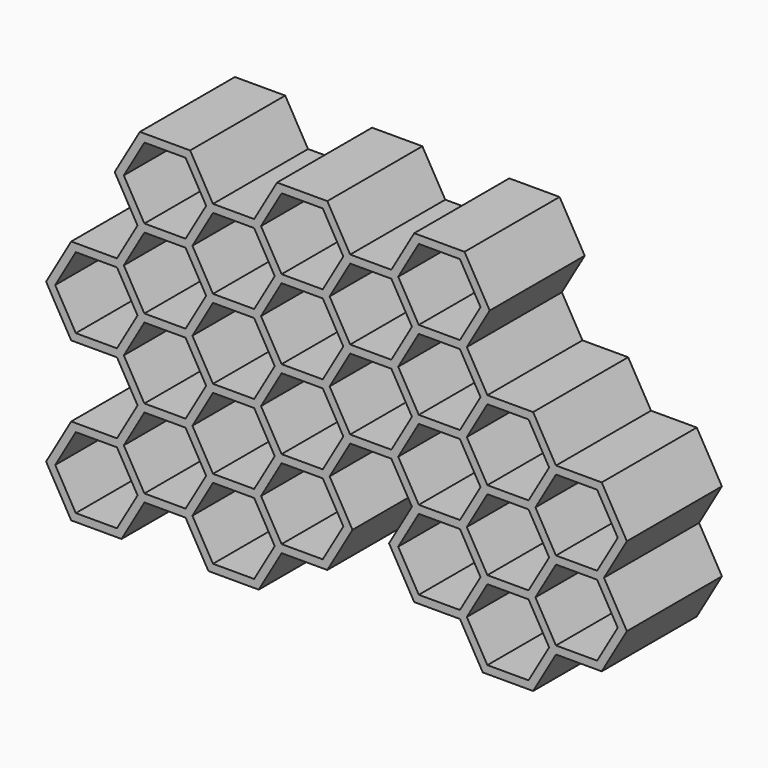
from build123d import *

# Parameters (mm, degrees)
F1_DEPTH = 12.7
F2_DEPTH = 95.25


with BuildPart() as f1:
    # F0 (on Front) → F1 (new body)
    with BuildSketch(Plane.XZ):
        Polygon((-169.2561069029, 130.2924993012), (-132.5943648094, 130.2924993012), (-114.2634937626, 162.0424993012), (-132.5943648094, 193.7924993012), (-169.2561069029, 193.7924993012), (-187.5869779497, 162.0424993012), align=None)
        Polygon((-167.4230197982, 133.4674993012), (-183.9208037403, 162.0424993012), (-167.4230197982, 190.6174993012), (-134.427451914, 190.6174993012), (-117.929667972, 162.0424993012), (-134.427451914, 133.4674993012), align=None, mode=Mode.SUBTRACT)
        Polygon((-132.5943648094, 3.2924993012), (-114.2634937626, 35.0424993012), (-132.5943648094, 66.7924993012), (-169.2561069029, 66.7924993012), (-187.5869779497, 35.0424993012), (-169.2561069029, 3.2924993012), align=None)
        Polygon((-167.4230197982, 6.4674993012), (-183.9208037403, 35.0424993012), (-167.4230197982, 63.6174993012), (-134.427451914, 63.6174993012), (-117.929667972, 35.0424993012), (-134.427451914, 6.4674993012), align=None, mode=Mode.SUBTRACT)
        Polygon((105.7069587986, 35.0424993012), (87.3760877519, 3.2924993012), (105.7069587986, -28.4575006988), (142.3687008922, -28.4575006988), (160.699571939, 3.2924993012), (142.3687008922, 35.0424993012), align=None)
        Polygon((107.5400459033, -25.2825006988), (91.0422619612, 3.2924993012), (107.5400459033, 31.8674993012), (140.5356137875, 31.8674993012), (157.0333977296, 3.2924993012), (140.5356137875, -25.2825006988), align=None, mode=Mode.SUBTRACT)
        Polygon((87.3760877519, 3.2924993012), (50.7143456583, 3.2924993012), (32.3834746116, -28.4575006988), (50.7143456583, -60.2075006988), (87.3760877519, -60.2075006988), (105.7069587986, -28.4575006988), align=None)
        Polygon((52.547432763, -57.0325006988), (36.0496488209, -28.4575006988), (52.547432763, 0.1174993012), (85.5430006472, 0.1174993012), (102.0407845893, -28.4575006988), (85.5430006472, -57.0325006988), align=None, mode=Mode.SUBTRACT)
        Polygon((-77.6017516691, 35.0424993012), (-59.2708806223, 66.7924993012), (-77.6017516691, 98.5424993012), (-114.2634937626, 98.5424993012), (-132.5943648094, 66.7924993012), (-114.2634937626, 35.0424993012), align=None)
        Polygon((-112.4304066579, 38.2174993012), (-128.9281906, 66.7924993012), (-112.4304066579, 95.3674993012), (-79.4348387737, 95.3674993012), (-62.9370548316, 66.7924993012), (-79.4348387737, 38.2174993012), align=None, mode=Mode.SUBTRACT)
        Polygon((-187.5869779497, -91.9575006988), (-169.2561069029, -60.2075006988), (-187.5869779497, -28.4575006988), (-224.2487200432, -28.4575006988), (-242.57959109, -60.2075006988), (-224.2487200432, -91.9575006988), align=None)
        Polygon((-222.4156329385, -88.7825006988), (-238.9134168806, -60.2075006988), (-222.4156329385, -31.6325006988), (-189.4200650544, -31.6325006988), (-172.9222811123, -60.2075006988), (-189.4200650543, -88.7825006988), align=None, mode=Mode.SUBTRACT)
        Polygon((160.699571939, 3.2924993012), (142.3687008922, -28.4575006988), (160.699571939, -60.2075006988), (197.3613140325, -60.2075006988), (215.6921850793, -28.4575006988), (197.3613140325, 3.2924993012), align=None)
        Polygon((162.5326590436, -57.0325006988), (146.0348751015, -28.4575006988), (162.5326590436, 0.1174993012), (195.5282269278, 0.1174993012), (212.0260108699, -28.4575006988), (195.5282269278, -57.0325006988), align=None, mode=Mode.SUBTRACT)
        Polygon((-4.278267482, -28.4575006988), (-22.6091385287, 3.2924993012), (-59.2708806223, 3.2924993012), (-77.6017516691, -28.4575006988), (-59.2708806223, -60.2075006988), (-22.6091385287, -60.2075006988), align=None)
        Polygon((-57.4377935176, -57.0325006988), (-73.9355774597, -28.4575006988), (-57.4377935176, 0.1174993012), (-24.4422256334, 0.1174993012), (-7.9444416913, -28.4575006988), (-24.4422256334, -57.0325006988), align=None, mode=Mode.SUBTRACT)
        Polygon((50.7143456583, 66.7924993012), (32.3834746116, 35.0424993012), (50.7143456583, 3.2924993012), (87.3760877519, 3.2924993012), (105.7069587986, 35.0424993012), (87.3760877519, 66.7924993012), align=None)
        Polygon((52.547432763, 6.4674993012), (36.0496488209, 35.0424993012), (52.547432763, 63.6174993012), (85.5430006472, 63.6174993012), (102.0407845893, 35.0424993012), (85.5430006472, 6.4674993012), align=None, mode=Mode.SUBTRACT)
        Polygon((-59.2708806223, -60.2075006988), (-77.6017516691, -28.4575006988), (-114.2634937626, -28.4575006988), (-132.5943648094, -60.2075006988), (-114.2634937626, -91.9575006988), (-77.6017516691, -91.9575006988), align=None)
        Polygon((-112.4304066579, -88.7825006988), (-128.9281906, -60.2075006988), (-112.4304066579, -31.6325006988), (-79.4348387737, -31.6325006988), (-62.9370548316, -60.2075006988), (-79.4348387737, -88.7825006988), align=None, mode=Mode.SUBTRACT)
        Polygon((142.3687008922, -28.4575006988), (105.7069587986, -28.4575006988), (87.3760877519, -60.2075006988), (105.7069587986, -91.9575006988), (142.3687008922, -91.9575006988), (160.699571939, -60.2075006988), align=None)
        Polygon((107.5400459033, -88.7825006988), (91.0422619612, -60.2075006988), (107.5400459033, -31.6325006988), (140.5356137875, -31.6325006988), (157.0333977296, -60.2075006988), (140.5356137875, -88.7825006988), align=None, mode=Mode.SUBTRACT)
        Polygon((-22.6091385287, 130.2924993012), (-4.278267482, 98.5424993012), (32.3834746116, 98.5424993012), (50.7143456583, 130.2924993012), (32.3834746116, 162.0424993012), (-4.278267482, 162.0424993012), align=None)
        Polygon((-2.4451803773, 101.7174993012), (-18.9429643194, 130.2924993012), (-2.4451803773, 158.8674993012), (30.5503875069, 158.8674993012), (47.048171449, 130.2924993012), (30.5503875069, 101.7174993012), align=None, mode=Mode.SUBTRACT)
        Polygon((32.3834746116, 98.5424993012), (50.7143456583, 66.7924993012), (87.3760877519, 66.7924993012), (105.7069587986, 98.5424993012), (87.3760877519, 130.2924993012), (50.7143456583, 130.2924993012), align=None)
        Polygon((52.547432763, 69.9674993012), (36.0496488209, 98.5424993012), (52.547432763, 127.1174993012), (85.5430006472, 127.1174993012), (102.0407845893, 98.5424993012), (85.5430006472, 69.9674993012), align=None, mode=Mode.SUBTRACT)
        Polygon((-132.5943648094, 66.7924993012), (-114.2634937626, 98.5424993012), (-132.5943648094, 130.2924993012), (-169.2561069029, 130.2924993012), (-187.5869779497, 98.5424993012), (-169.2561069029, 66.7924993012), align=None)
        Polygon((-167.4230197982, 69.9674993012), (-183.9208037403, 98.5424993012), (-167.4230197982, 127.1174993012), (-134.427451914, 127.1174993012), (-117.929667972, 98.5424993012), (-134.427451914, 69.9674993012), align=None, mode=Mode.SUBTRACT)
        Polygon((-77.6017516691, -28.4575006988), (-59.2708806223, 3.2924993012), (-77.6017516691, 35.0424993012), (-114.2634937626, 35.0424993012), (-132.5943648094, 3.2924993012), (-114.2634937626, -28.4575006988), align=None)
        Polygon((-112.4304066579, -25.2825006988), (-128.9281906, 3.2924993012), (-112.4304066579, 31.8674993012), (-79.4348387737, 31.8674993012), (-62.9370548316, 3.2924993012), (-79.4348387737, -25.2825006988), align=None, mode=Mode.SUBTRACT)
        Polygon((-27.4963065598, 130.2924993012), (-22.6091385287, 130.2924993012), (-4.278267482, 162.0424993012), (-22.6091385287, 193.7924993012), (-59.2708806223, 193.7924993012), (-77.6017516691, 162.0424993012), (-59.2708806223, 130.2924993012), align=None)
        Polygon((-57.4377935176, 133.4674993012), (-73.9355774597, 162.0424993012), (-57.4377935176, 190.6174993012), (-24.4422256334, 190.6174993012), (-7.9444416913, 162.0424993012), (-24.4422256334, 133.4674993012), align=None, mode=Mode.SUBTRACT)
        Polygon((-114.2634937626, 98.5424993012), (-77.6017516691, 98.5424993012), (-59.2708806223, 130.2924993012), (-77.6017516691, 162.0424993012), (-114.2634937626, 162.0424993012), (-132.5943648094, 130.2924993012), align=None)
        Polygon((-112.4304066579, 101.7174993012), (-128.9281906, 130.2924993012), (-112.4304066579, 158.8674993012), (-79.4348387737, 158.8674993012), (-62.9370548316, 130.2924993012), (-79.4348387737, 101.7174993012), align=None, mode=Mode.SUBTRACT)
        Polygon((-187.5869779497, 35.0424993012), (-169.2561069029, 66.7924993012), (-187.5869779497, 98.5424993012), (-190.6410588775, 98.5424993012), (-224.2487200432, 98.5424993012), (-242.57959109, 66.7924993012), (-224.2487200432, 35.0424993012), (-221.8035396555, 35.0424993012), align=None)
        Polygon((-222.4156329385, 38.2174993012), (-238.9134168806, 66.7924993012), (-222.4156329385, 95.3674993012), (-189.4200650544, 95.3674993012), (-172.9222811123, 66.7924993012), (-189.4200650544, 38.2174993012), align=None, mode=Mode.SUBTRACT)
        Polygon((160.699571939, 66.7924993012), (142.3687008922, 35.0424993012), (160.699571939, 3.2924993012), (197.3613140325, 3.2924993012), (215.6921850793, 35.0424993012), (197.3613140325, 66.7924993012), align=None)
        Polygon((162.5326590436, 6.4674993012), (146.0348751015, 35.0424993012), (162.5326590436, 63.6174993012), (195.5282269278, 63.6174993012), (212.0260108699, 35.0424993012), (195.5282269278, 6.4674993012), align=None, mode=Mode.SUBTRACT)
        Polygon((-132.5943648094, -60.2075006988), (-114.2634937626, -28.4575006988), (-132.5943648094, 3.2924993012), (-169.2561069029, 3.2924993012), (-187.5869779497, -28.4575006988), (-169.2561069029, -60.2075006988), align=None)
        Polygon((-167.4230197982, -57.0325006988), (-183.9208037403, -28.4575006988), (-167.4230197982, 0.1174993012), (-134.427451914, 0.1174993012), (-117.929667972, -28.4575006988), (-134.427451914, -57.0325006988), align=None, mode=Mode.SUBTRACT)
        Polygon((32.3834746116, 162.0424993012), (50.7143456583, 130.2924993012), (87.3760877519, 130.2924993012), (105.7069587986, 162.0424993012), (87.3760877519, 193.7924993012), (50.7143456583, 193.7924993012), align=None)
        Polygon((52.547432763, 133.4674993012), (36.0496488209, 162.0424993012), (52.547432763, 190.6174993012), (85.5430006472, 190.6174993012), (102.0407845893, 162.0424993012), (85.5430006472, 133.4674993012), align=None, mode=Mode.SUBTRACT)
        Polygon((105.7069587986, 98.5424993012), (87.3760877519, 66.7924993012), (105.7069587986, 35.0424993012), (142.3687008922, 35.0424993012), (160.699571939, 66.7924993012), (142.3687008922, 98.5424993012), align=None)
        Polygon((107.5400459033, 38.2174993012), (91.0422619612, 66.7924993012), (107.5400459033, 95.3674993012), (140.5356137875, 95.3674993012), (157.0333977296, 66.7924993012), (140.5356137875, 38.2174993012), align=None, mode=Mode.SUBTRACT)
        Polygon((-22.6091385287, 3.2924993012), (-4.278267482, 35.0424993012), (-22.6091385287, 66.7924993012), (-27.4963065598, 66.7924993012), (-59.2708806223, 66.7924993012), (-77.6017516691, 35.0424993012), (-59.2708806223, 3.2924993012), align=None)
        Polygon((-57.4377935176, 6.4674993012), (-73.9355774597, 35.0424993012), (-57.4377935176, 63.6174993012), (-24.4422256334, 63.6174993012), (-7.9444416913, 35.0424993012), (-24.4422256334, 6.4674993012), align=None, mode=Mode.SUBTRACT)
        Polygon((-22.6091385287, 66.7924993012), (-4.278267482, 35.0424993012), (27.4963065702, 35.0424993012), (32.3834746116, 35.0424993012), (50.7143456583, 66.7924993012), (32.3834746116, 98.5424993012), (-4.278267482, 98.5424993012), align=None)
        Polygon((-2.4451803773, 38.2174993012), (-18.9429643194, 66.7924993012), (-2.4451803773, 95.3674993012), (30.5503875069, 95.3674993012), (47.048171449, 66.7924993012), (30.5503875069, 38.2174993012), align=None, mode=Mode.SUBTRACT)
        Polygon((-57.4377935176, 190.6174993012), (-73.9355774597, 162.0424993012), (-57.4377935176, 133.4674993012), (-24.4422256334, 133.4674993012), (-7.9444416913, 162.0424993012), (-24.4422256334, 190.6174993012), align=None)
        Polygon((162.5326590436, 0.1174993012), (146.0348751015, -28.4575006988), (162.5326590436, -57.0325006988), (195.5282269278, -57.0325006988), (212.0260108699, -28.4575006988), (195.5282269278, 0.1174993012), align=None)
        Polygon((52.547432763, 190.6174993012), (36.0496488209, 162.0424993012), (52.547432763, 133.4674993012), (85.5430006472, 133.4674993012), (102.0407845893, 162.0424993012), (85.5430006472, 190.6174993012), align=None)
        Polygon((-222.4156329385, -31.6325006988), (-238.9134168806, -60.2075006988), (-222.4156329385, -88.7825006988), (-189.4200650543, -88.7825006988), (-172.9222811123, -60.2075006988), (-189.4200650544, -31.6325006988), align=None)
        Polygon((52.547432763, 127.1174993012), (36.0496488209, 98.5424993012), (52.547432763, 69.9674993012), (85.5430006472, 69.9674993012), (102.0407845893, 98.5424993012), (85.5430006472, 127.1174993012), align=None)
        Polygon((52.547432763, 63.6174993012), (36.0496488209, 35.0424993012), (52.547432763, 6.4674993012), (85.5430006472, 6.4674993012), (102.0407845893, 35.0424993012), (85.5430006472, 63.6174993012), align=None)
        Polygon((-222.4156329385, 95.3674993012), (-238.9134168806, 66.7924993012), (-222.4156329385, 38.2174993012), (-189.4200650544, 38.2174993012), (-172.9222811123, 66.7924993012), (-189.4200650544, 95.3674993012), align=None)
        Polygon((-2.4451803773, 95.3674993012), (-18.9429643194, 66.7924993012), (-2.4451803773, 38.2174993012), (30.5503875069, 38.2174993012), (47.048171449, 66.7924993012), (30.5503875069, 95.3674993012), align=None)
        Polygon((-167.4230197982, 127.1174993012), (-183.9208037403, 98.5424993012), (-167.4230197982, 69.9674993012), (-134.427451914, 69.9674993012), (-117.929667972, 98.5424993012), (-134.427451914, 127.1174993012), align=None)
        Polygon((-112.4304066579, 158.8674993012), (-128.9281906, 130.2924993012), (-112.4304066579, 101.7174993012), (-79.4348387737, 101.7174993012), (-62.9370548316, 130.2924993012), (-79.4348387737, 158.8674993012), align=None)
        Polygon((-57.4377935176, 0.1174993012), (-73.9355774597, -28.4575006988), (-57.4377935176, -57.0325006988), (-24.4422256334, -57.0325006988), (-7.9444416913, -28.4575006988), (-24.4422256334, 0.1174993012), align=None)
        Polygon((-112.4304066579, -31.6325006988), (-128.9281906, -60.2075006988), (-112.4304066579, -88.7825006988), (-79.4348387737, -88.7825006988), (-62.9370548316, -60.2075006988), (-79.4348387737, -31.6325006988), align=None)
        Polygon((-167.4230197982, 0.1174993012), (-183.9208037403, -28.4575006988), (-167.4230197982, -57.0325006988), (-134.427451914, -57.0325006988), (-117.929667972, -28.4575006988), (-134.427451914, 0.1174993012), align=None)
        Polygon((-167.4230197982, 190.6174993012), (-183.9208037403, 162.0424993012), (-167.4230197982, 133.4674993012), (-134.427451914, 133.4674993012), (-117.929667972, 162.0424993012), (-134.427451914, 190.6174993012), align=None)
        Polygon((162.5326590436, 63.6174993012), (146.0348751015, 35.0424993012), (162.5326590436, 6.4674993012), (195.5282269278, 6.4674993012), (212.0260108699, 35.0424993012), (195.5282269278, 63.6174993012), align=None)
        Polygon((-2.4451803773, 158.8674993012), (-18.9429643194, 130.2924993012), (-2.4451803773, 101.7174993012), (30.5503875069, 101.7174993012), (47.048171449, 130.2924993012), (30.5503875069, 158.8674993012), align=None)
        Polygon((52.547432763, 0.1174993012), (36.0496488209, -28.4575006988), (52.547432763, -57.0325006988), (85.5430006472, -57.0325006988), (102.0407845893, -28.4575006988), (85.5430006472, 0.1174993012), align=None)
        Polygon((107.5400459033, 31.8674993012), (91.0422619612, 3.2924993012), (107.5400459033, -25.2825006988), (140.5356137875, -25.2825006988), (157.0333977296, 3.2924993012), (140.5356137875, 31.8674993012), align=None)
        Polygon((-57.4377935176, 63.6174993012), (-73.9355774597, 35.0424993012), (-57.4377935176, 6.4674993012), (-24.4422256334, 6.4674993012), (-7.9444416913, 35.0424993012), (-24.4422256334, 63.6174993012), align=None)
        Polygon((-112.4304066579, 31.8674993012), (-128.9281906, 3.2924993012), (-112.4304066579, -25.2825006988), (-79.4348387737, -25.2825006988), (-62.9370548316, 3.2924993012), (-79.4348387737, 31.8674993012), align=None)
        Polygon((107.5400459033, 95.3674993012), (91.0422619612, 66.7924993012), (107.5400459033, 38.2174993012), (140.5356137875, 38.2174993012), (157.0333977296, 66.7924993012), (140.5356137875, 95.3674993012), align=None)
        Polygon((-167.4230197982, 63.6174993012), (-183.9208037403, 35.0424993012), (-167.4230197982, 6.4674993012), (-134.427451914, 6.4674993012), (-117.929667972, 35.0424993012), (-134.427451914, 63.6174993012), align=None)
        Polygon((107.5400459033, -31.6325006988), (91.0422619612, -60.2075006988), (107.5400459033, -88.7825006988), (140.5356137875, -88.7825006988), (157.0333977296, -60.2075006988), (140.5356137875, -31.6325006988), align=None)
        Polygon((-112.4304066579, 95.3674993012), (-128.9281906, 66.7924993012), (-112.4304066579, 38.2174993012), (-79.4348387737, 38.2174993012), (-62.9370548316, 66.7924993012), (-79.4348387737, 95.3674993012), align=None)
    extrude(amount=F1_DEPTH)

    # F0 (on Front) → F2 (join)
    with BuildSketch(Plane.XZ):
        Polygon((89.2091748566, 196.9674993012), (48.8812585537, 196.9674993012), (30.5503875069, 165.2174993012), (-2.4451803773, 165.2174993012), (-20.7760514241, 196.9674993012), (-61.103967727, 196.9674993012), (-79.4348387737, 165.2174993012), (-112.4304066579, 165.2174993012), (-130.7612777034, 196.967499299), (-171.0891940088, 196.967499299), (-191.253152159, 162.0424993012), (-172.9222811123, 130.2924993012), (-189.4200650544, 101.7174993012), (-226.0818071479, 101.7174993012), (-246.2457652993, 66.7924993012), (-226.0818071479, 31.8674993012), (-189.4200650544, 31.8674993012), (-172.9222811123, 3.2924993012), (-189.4200540638, -25.2824816626), (-226.0817961573, -25.2824816626), (-246.24577629, -60.2075197352), (-226.0817961573, -95.1325578078), (-185.7539677819, -95.1325578078), (-167.4230967351, -63.3825578078), (-134.4273749772, -63.3825578078), (-116.0965039304, -95.1325578078), (-75.7687415012, -95.1325578078), (-57.4378374826, -63.3825006988), (-20.7760404334, -63.3825006988), (-0.612082282, -28.4575006988), (-18.9429533287, 3.2924993012), (-2.4451693867, 31.8674993012), (30.5503875069, 31.8674993012), (47.048171449, 3.2924993012), (28.7173004022, -28.4575006988), (48.8812585537, -63.3825006988), (85.5430006472, -63.3825006988), (103.873871694, -95.1325006988), (144.2017879969, -95.1325006988), (162.5326590436, -63.3825006988), (199.1944011372, -63.3825006988), (219.3583592886, -28.4575006988), (201.0274882419, 3.2924993012), (219.3583592886, 35.0424993012), (199.1944011372, 69.9674993012), (162.5326590436, 69.9674993012), (144.2017879969, 101.7174993012), (107.5400459033, 101.7174993012), (91.0422619612, 130.2924993012), (109.373133008, 162.0424993012), align=None)
        Polygon((27.4963065702, 35.0424993012), (-4.278267482, 35.0424993012), (-22.6091385287, 3.2924993012), (-4.278267482, -28.4575006988), (-22.6091385287, -60.2075006988), (-59.2708806223, -60.2075006988), (-77.6017516691, -91.9575006988), (-114.2634937626, -91.9575006988), (-132.5943648094, -60.2075006988), (-169.2561069029, -60.2075006988), (-187.5869779497, -91.9575006988), (-224.2487200432, -91.9575006988), (-242.57959109, -60.2075006988), (-224.2487200432, -28.4575006988), (-187.5869779497, -28.4575006988), (-169.2561069029, 3.2924993012), (-187.5869779497, 35.0424993012), (-221.8035396555, 35.0424993012), (-224.2487200432, 35.0424993012), (-242.57959109, 66.7924993012), (-224.2487200432, 98.5424993012), (-190.6410588775, 98.5424993012), (-187.5869779497, 98.5424993012), (-169.2561069029, 130.2924993012), (-187.5869779497, 162.0424993012), (-169.2561069029, 193.7924993012), (-132.5943648094, 193.7924993012), (-114.2634937626, 162.0424993012), (-77.6017516691, 162.0424993012), (-59.2708806223, 193.7924993012), (-22.6091385287, 193.7924993012), (-4.278267482, 162.0424993012), (32.3834746116, 162.0424993012), (50.7143456583, 193.7924993012), (87.3760877519, 193.7924993012), (105.7069587986, 162.0424993012), (87.3760877519, 130.2924993012), (105.7069587986, 98.5424993012), (142.3687008922, 98.5424993012), (160.699571939, 66.7924993012), (197.3613140325, 66.7924993012), (215.6921850793, 35.0424993012), (197.3613140325, 3.2924993012), (215.6921850793, -28.4575006988), (197.3613140325, -60.2075006988), (160.699571939, -60.2075006988), (142.3687008922, -91.9575006988), (105.7069587986, -91.9575006988), (87.3760877519, -60.2075006988), (50.7143456583, -60.2075006988), (32.3834746116, -28.4575006988), (50.7143456583, 3.2924993012), (32.3834746116, 35.0424993012), align=None, mode=Mode.SUBTRACT)
        Polygon((32.3834746116, 98.5424993012), (50.7143456583, 66.7924993012), (87.3760877519, 66.7924993012), (105.7069587986, 98.5424993012), (87.3760877519, 130.2924993012), (50.7143456583, 130.2924993012), align=None)
        Polygon((52.547432763, 69.9674993012), (36.0496488209, 98.5424993012), (52.547432763, 127.1174993012), (85.5430006472, 127.1174993012), (102.0407845893, 98.5424993012), (85.5430006472, 69.9674993012), align=None, mode=Mode.SUBTRACT)
        Polygon((-22.6091385287, 130.2924993012), (-4.278267482, 98.5424993012), (32.3834746116, 98.5424993012), (50.7143456583, 130.2924993012), (32.3834746116, 162.0424993012), (-4.278267482, 162.0424993012), align=None)
        Polygon((-2.4451803773, 101.7174993012), (-18.9429643194, 130.2924993012), (-2.4451803773, 158.8674993012), (30.5503875069, 158.8674993012), (47.048171449, 130.2924993012), (30.5503875069, 101.7174993012), align=None, mode=Mode.SUBTRACT)
        Polygon((32.3834746116, 162.0424993012), (50.7143456583, 130.2924993012), (87.3760877519, 130.2924993012), (105.7069587986, 162.0424993012), (87.3760877519, 193.7924993012), (50.7143456583, 193.7924993012), align=None)
        Polygon((52.547432763, 133.4674993012), (36.0496488209, 162.0424993012), (52.547432763, 190.6174993012), (85.5430006472, 190.6174993012), (102.0407845893, 162.0424993012), (85.5430006472, 133.4674993012), align=None, mode=Mode.SUBTRACT)
        Polygon((-27.4963065598, 130.2924993012), (-22.6091385287, 130.2924993012), (-4.278267482, 162.0424993012), (-22.6091385287, 193.7924993012), (-59.2708806223, 193.7924993012), (-77.6017516691, 162.0424993012), (-59.2708806223, 130.2924993012), align=None)
        Polygon((-57.4377935176, 133.4674993012), (-73.9355774597, 162.0424993012), (-57.4377935176, 190.6174993012), (-24.4422256334, 190.6174993012), (-7.9444416913, 162.0424993012), (-24.4422256334, 133.4674993012), align=None, mode=Mode.SUBTRACT)
        Polygon((-114.2634937626, 98.5424993012), (-77.6017516691, 98.5424993012), (-59.2708806223, 130.2924993012), (-77.6017516691, 162.0424993012), (-114.2634937626, 162.0424993012), (-132.5943648094, 130.2924993012), align=None)
        Polygon((-112.4304066579, 101.7174993012), (-128.9281906, 130.2924993012), (-112.4304066579, 158.8674993012), (-79.4348387737, 158.8674993012), (-62.9370548316, 130.2924993012), (-79.4348387737, 101.7174993012), align=None, mode=Mode.SUBTRACT)
        Polygon((-169.2561069029, 130.2924993012), (-132.5943648094, 130.2924993012), (-114.2634937626, 162.0424993012), (-132.5943648094, 193.7924993012), (-169.2561069029, 193.7924993012), (-187.5869779497, 162.0424993012), align=None)
        Polygon((-167.4230197982, 133.4674993012), (-183.9208037403, 162.0424993012), (-167.4230197982, 190.6174993012), (-134.427451914, 190.6174993012), (-117.929667972, 162.0424993012), (-134.427451914, 133.4674993012), align=None, mode=Mode.SUBTRACT)
        Polygon((-77.6017516691, 35.0424993012), (-59.2708806223, 66.7924993012), (-77.6017516691, 98.5424993012), (-114.2634937626, 98.5424993012), (-132.5943648094, 66.7924993012), (-114.2634937626, 35.0424993012), align=None)
        Polygon((-112.4304066579, 38.2174993012), (-128.9281906, 66.7924993012), (-112.4304066579, 95.3674993012), (-79.4348387737, 95.3674993012), (-62.9370548316, 66.7924993012), (-79.4348387737, 38.2174993012), align=None, mode=Mode.SUBTRACT)
        Polygon((-22.6091385287, 3.2924993012), (-4.278267482, 35.0424993012), (-22.6091385287, 66.7924993012), (-27.4963065598, 66.7924993012), (-59.2708806223, 66.7924993012), (-77.6017516691, 35.0424993012), (-59.2708806223, 3.2924993012), align=None)
        Polygon((-57.4377935176, 6.4674993012), (-73.9355774597, 35.0424993012), (-57.4377935176, 63.6174993012), (-24.4422256334, 63.6174993012), (-7.9444416913, 35.0424993012), (-24.4422256334, 6.4674993012), align=None, mode=Mode.SUBTRACT)
        Polygon((-22.6091385287, 66.7924993012), (-4.278267482, 35.0424993012), (27.4963065702, 35.0424993012), (32.3834746116, 35.0424993012), (50.7143456583, 66.7924993012), (32.3834746116, 98.5424993012), (-4.278267482, 98.5424993012), align=None)
        Polygon((-2.4451803773, 38.2174993012), (-18.9429643194, 66.7924993012), (-2.4451803773, 95.3674993012), (30.5503875069, 95.3674993012), (47.048171449, 66.7924993012), (30.5503875069, 38.2174993012), align=None, mode=Mode.SUBTRACT)
        Polygon((50.7143456583, 66.7924993012), (32.3834746116, 35.0424993012), (50.7143456583, 3.2924993012), (87.3760877519, 3.2924993012), (105.7069587986, 35.0424993012), (87.3760877519, 66.7924993012), align=None)
        Polygon((52.547432763, 6.4674993012), (36.0496488209, 35.0424993012), (52.547432763, 63.6174993012), (85.5430006472, 63.6174993012), (102.0407845893, 35.0424993012), (85.5430006472, 6.4674993012), align=None, mode=Mode.SUBTRACT)
        Polygon((105.7069587986, 98.5424993012), (87.3760877519, 66.7924993012), (105.7069587986, 35.0424993012), (142.3687008922, 35.0424993012), (160.699571939, 66.7924993012), (142.3687008922, 98.5424993012), align=None)
        Polygon((107.5400459033, 38.2174993012), (91.0422619612, 66.7924993012), (107.5400459033, 95.3674993012), (140.5356137875, 95.3674993012), (157.0333977296, 66.7924993012), (140.5356137875, 38.2174993012), align=None, mode=Mode.SUBTRACT)
        Polygon((105.7069587986, 35.0424993012), (87.3760877519, 3.2924993012), (105.7069587986, -28.4575006988), (142.3687008922, -28.4575006988), (160.699571939, 3.2924993012), (142.3687008922, 35.0424993012), align=None)
        Polygon((107.5400459033, -25.2825006988), (91.0422619612, 3.2924993012), (107.5400459033, 31.8674993012), (140.5356137875, 31.8674993012), (157.0333977296, 3.2924993012), (140.5356137875, -25.2825006988), align=None, mode=Mode.SUBTRACT)
        Polygon((160.699571939, 66.7924993012), (142.3687008922, 35.0424993012), (160.699571939, 3.2924993012), (197.3613140325, 3.2924993012), (215.6921850793, 35.0424993012), (197.3613140325, 66.7924993012), align=None)
        Polygon((162.5326590436, 6.4674993012), (146.0348751015, 35.0424993012), (162.5326590436, 63.6174993012), (195.5282269278, 63.6174993012), (212.0260108699, 35.0424993012), (195.5282269278, 6.4674993012), align=None, mode=Mode.SUBTRACT)
        Polygon((160.699571939, 3.2924993012), (142.3687008922, -28.4575006988), (160.699571939, -60.2075006988), (197.3613140325, -60.2075006988), (215.6921850793, -28.4575006988), (197.3613140325, 3.2924993012), align=None)
        Polygon((162.5326590436, -57.0325006988), (146.0348751015, -28.4575006988), (162.5326590436, 0.1174993012), (195.5282269278, 0.1174993012), (212.0260108699, -28.4575006988), (195.5282269278, -57.0325006988), align=None, mode=Mode.SUBTRACT)
        Polygon((142.3687008922, -28.4575006988), (105.7069587986, -28.4575006988), (87.3760877519, -60.2075006988), (105.7069587986, -91.9575006988), (142.3687008922, -91.9575006988), (160.699571939, -60.2075006988), align=None)
        Polygon((107.5400459033, -88.7825006988), (91.0422619612, -60.2075006988), (107.5400459033, -31.6325006988), (140.5356137875, -31.6325006988), (157.0333977296, -60.2075006988), (140.5356137875, -88.7825006988), align=None, mode=Mode.SUBTRACT)
        Polygon((87.3760877519, 3.2924993012), (50.7143456583, 3.2924993012), (32.3834746116, -28.4575006988), (50.7143456583, -60.2075006988), (87.3760877519, -60.2075006988), (105.7069587986, -28.4575006988), align=None)
        Polygon((52.547432763, -57.0325006988), (36.0496488209, -28.4575006988), (52.547432763, 0.1174993012), (85.5430006472, 0.1174993012), (102.0407845893, -28.4575006988), (85.5430006472, -57.0325006988), align=None, mode=Mode.SUBTRACT)
        Polygon((-4.278267482, -28.4575006988), (-22.6091385287, 3.2924993012), (-59.2708806223, 3.2924993012), (-77.6017516691, -28.4575006988), (-59.2708806223, -60.2075006988), (-22.6091385287, -60.2075006988), align=None)
        Polygon((-57.4377935176, -57.0325006988), (-73.9355774597, -28.4575006988), (-57.4377935176, 0.1174993012), (-24.4422256334, 0.1174993012), (-7.9444416913, -28.4575006988), (-24.4422256334, -57.0325006988), align=None, mode=Mode.SUBTRACT)
        Polygon((-77.6017516691, -28.4575006988), (-59.2708806223, 3.2924993012), (-77.6017516691, 35.0424993012), (-114.2634937626, 35.0424993012), (-132.5943648094, 3.2924993012), (-114.2634937626, -28.4575006988), align=None)
        Polygon((-112.4304066579, -25.2825006988), (-128.9281906, 3.2924993012), (-112.4304066579, 31.8674993012), (-79.4348387737, 31.8674993012), (-62.9370548316, 3.2924993012), (-79.4348387737, -25.2825006988), align=None, mode=Mode.SUBTRACT)
        Polygon((-59.2708806223, -60.2075006988), (-77.6017516691, -28.4575006988), (-114.2634937626, -28.4575006988), (-132.5943648094, -60.2075006988), (-114.2634937626, -91.9575006988), (-77.6017516691, -91.9575006988), align=None)
        Polygon((-112.4304066579, -88.7825006988), (-128.9281906, -60.2075006988), (-112.4304066579, -31.6325006988), (-79.4348387737, -31.6325006988), (-62.9370548316, -60.2075006988), (-79.4348387737, -88.7825006988), align=None, mode=Mode.SUBTRACT)
        Polygon((-132.5943648094, -60.2075006988), (-114.2634937626, -28.4575006988), (-132.5943648094, 3.2924993012), (-169.2561069029, 3.2924993012), (-187.5869779497, -28.4575006988), (-169.2561069029, -60.2075006988), align=None)
        Polygon((-167.4230197982, -57.0325006988), (-183.9208037403, -28.4575006988), (-167.4230197982, 0.1174993012), (-134.427451914, 0.1174993012), (-117.929667972, -28.4575006988), (-134.427451914, -57.0325006988), align=None, mode=Mode.SUBTRACT)
        Polygon((-187.5869779497, 35.0424993012), (-169.2561069029, 66.7924993012), (-187.5869779497, 98.5424993012), (-190.6410588775, 98.5424993012), (-224.2487200432, 98.5424993012), (-242.57959109, 66.7924993012), (-224.2487200432, 35.0424993012), (-221.8035396555, 35.0424993012), align=None)
        Polygon((-222.4156329385, 38.2174993012), (-238.9134168806, 66.7924993012), (-222.4156329385, 95.3674993012), (-189.4200650544, 95.3674993012), (-172.9222811123, 66.7924993012), (-189.4200650544, 38.2174993012), align=None, mode=Mode.SUBTRACT)
        Polygon((-187.5869779497, -91.9575006988), (-169.2561069029, -60.2075006988), (-187.5869779497, -28.4575006988), (-224.2487200432, -28.4575006988), (-242.57959109, -60.2075006988), (-224.2487200432, -91.9575006988), align=None)
        Polygon((-222.4156329385, -88.7825006988), (-238.9134168806, -60.2075006988), (-222.4156329385, -31.6325006988), (-189.4200650544, -31.6325006988), (-172.9222811123, -60.2075006988), (-189.4200650543, -88.7825006988), align=None, mode=Mode.SUBTRACT)
        Polygon((-132.5943648094, 66.7924993012), (-114.2634937626, 98.5424993012), (-132.5943648094, 130.2924993012), (-169.2561069029, 130.2924993012), (-187.5869779497, 98.5424993012), (-169.2561069029, 66.7924993012), align=None)
        Polygon((-167.4230197982, 69.9674993012), (-183.9208037403, 98.5424993012), (-167.4230197982, 127.1174993012), (-134.427451914, 127.1174993012), (-117.929667972, 98.5424993012), (-134.427451914, 69.9674993012), align=None, mode=Mode.SUBTRACT)
        Polygon((-132.5943648094, 3.2924993012), (-114.2634937626, 35.0424993012), (-132.5943648094, 66.7924993012), (-169.2561069029, 66.7924993012), (-187.5869779497, 35.0424993012), (-169.2561069029, 3.2924993012), align=None)
        Polygon((-167.4230197982, 6.4674993012), (-183.9208037403, 35.0424993012), (-167.4230197982, 63.6174993012), (-134.427451914, 63.6174993012), (-117.929667972, 35.0424993012), (-134.427451914, 6.4674993012), align=None, mode=Mode.SUBTRACT)
        Polygon((-27.4963065598, 66.7924993012), (-22.6091385287, 66.7924993012), (-4.278267482, 98.5424993012), (-22.6091385287, 130.2924993012), (-27.4963065598, 130.2924993012), (-59.2708806223, 130.2924993012), (-77.6017516691, 98.5424993012), (-59.2708806223, 66.7924993012), align=None)
        Polygon((-73.9355774597, 98.5424993012), (-57.4377935176, 127.1174993012), (-24.4422256334, 127.1174993012), (-7.9444416913, 98.5424993012), (-24.4422256334, 69.9674993012), (-57.4377935176, 69.9674993012), align=None, mode=Mode.SUBTRACT)
    extrude(amount=F2_DEPTH)


solid = f1.part
